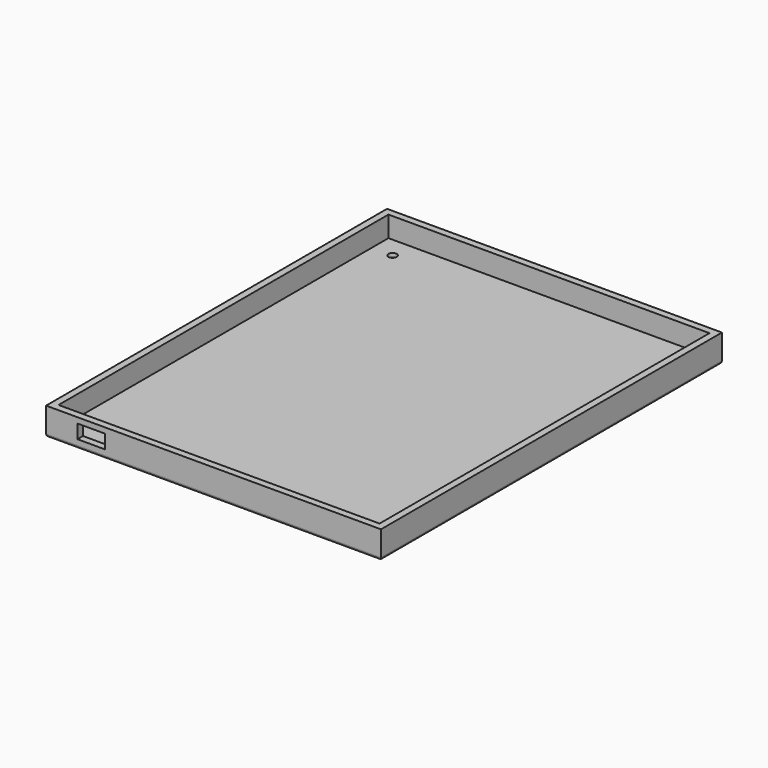
from build123d import *

# Parameters (mm, degrees)
F0_W           = 121
F0_H           = 154
F1_DEPTH       = 10
F2_T           = -2.5
F4_D           = 3
F4_CSINK_D     = 5
F4_CSINK_ANGLE = 90
F5_R           = 1
F6_W           = 10
F6_H           = 5
F7_DEPTH       = 2.5


with BuildPart() as f1:
    # F0 (on Top) → F1 (new body)
    with BuildSketch(Plane.XY):
        with Locations((-30.2418641299, 32.8448046446)):
            Rectangle(F0_W, F0_H)
    extrude(amount=F1_DEPTH)

    # F2
    f2_openings = [f1.faces().sort_by_distance(p)[0] for p in [
        (-30.241864, 32.844805, 10),
    ]]
    offset(amount=F2_T, openings=f2_openings)

    # F4 (through all)
    with Locations(Plane(origin=(0, 0, 0), x_dir=(1, 0, 0), z_dir=(0, 0, -1))):
        with Locations((-80.7418641299, 34.1551953554), (20.2581358701, 34.1551953554), (-80.7418641299, -99.8448046446), (20.2581358701, -99.8448046446)):
            CounterSinkHole(F4_D / 2, F4_CSINK_D / 2, counter_sink_angle=F4_CSINK_ANGLE)

    # F5
    f5_edges = [f1.edges().sort_by_distance(p)[0] for p in [
        (-30.241864, -44.155195, 0),
        (-90.741864, 32.844805, 0),
        (30.258136, 32.844805, 0),
        (-30.241864, 109.844805, 0),
    ]]
    fillet(f5_edges, radius=F5_R)

    # F6 (on face) → F7 (cut, through all)
    with BuildSketch(Plane.XZ.offset(44.1551953554)):
        with Locations((-74.3994042277, 5.5)):
            Rectangle(F6_W, F6_H)
    extrude(amount=-F7_DEPTH, mode=Mode.SUBTRACT)


solid = f1.part
